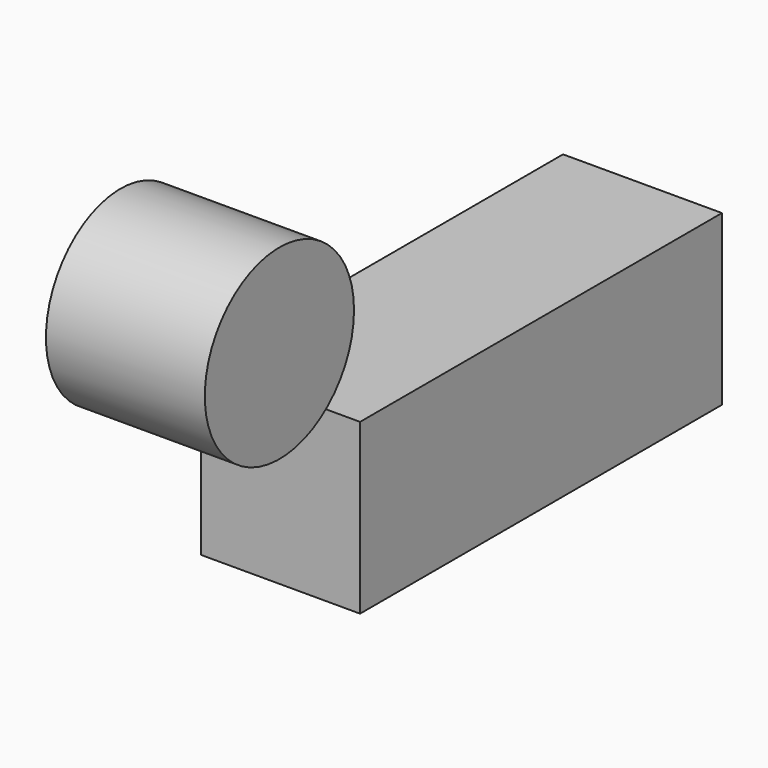
from build123d import *

# Parameters (mm, degrees)
F0_W     = 72.30936
F0_H     = 26.993513
F1_DEPTH = 25.4
F2_R     = 14.906309
F3_DEPTH = 25.4


with BuildPart() as f1:
    # F0 (on Right) → F1 (new body)
    with BuildSketch(Plane.YZ):
        with Locations((36.15468, 13.496757)):
            Rectangle(F0_W, F0_H)
    extrude(amount=F1_DEPTH)


with BuildPart() as f3:
    # F2 (on Right) → F3 (new body)
    with BuildSketch(Plane.YZ):
        with Locations((-16.119279, 43.208763)):
            Circle(F2_R)
    extrude(amount=F3_DEPTH)


solid = Compound([f1.part, f3.part])
